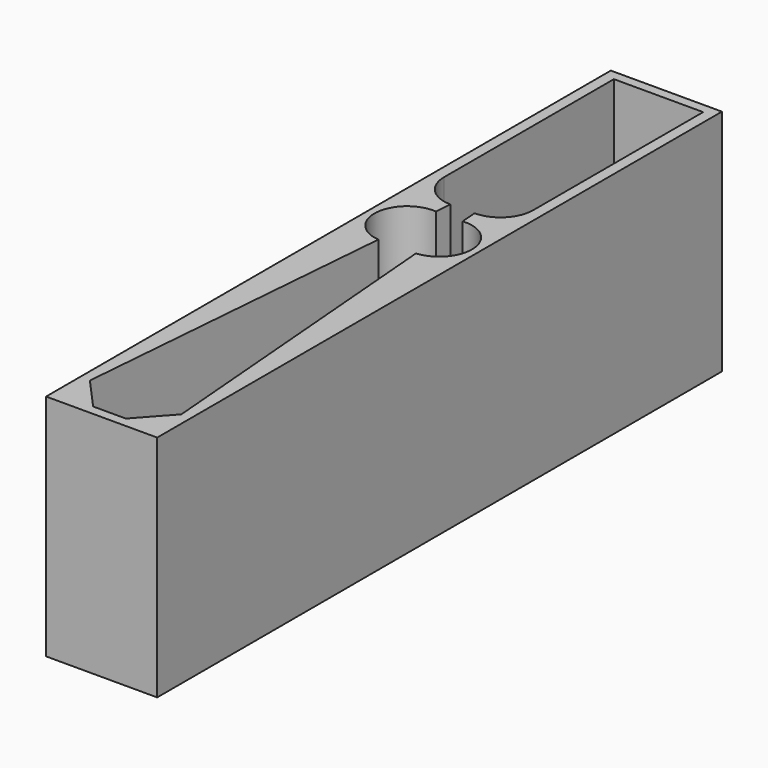
from build123d import *

# Parameters (mm, degrees)
F1_DEPTH = 68
F2_DEPTH = 2


with BuildPart() as f1:
    # F0 (on Top) → F1 (new body)
    with BuildSketch(Plane.XY):
        Polygon((-3, 213), (-3, -3), (14, -3), (31, -3), (31, 213), (14, 213), align=None)
        with BuildLine():
            Line((14, 0), (9, 0))
            Line((9, 0), (0, 10))
            Line((0, 10), (8.259878, 110.033916))
            ThreePointArc((8.259878, 110.033916), (-0.883299, 120.822907), (9.905692, 129.966084))
            Line((9.905692, 129.966084), (10.321346, 135))
            ThreePointArc((10.321346, 135), (3.266782, 137.937946), (0.346885, 145))
            Line((0.346885, 145), (0.346885, 210))
            Line((0.346885, 210), (14, 210))
            Line((14, 210), (27.653115, 210))
            Line((27.653115, 210), (27.653115, 145))
            ThreePointArc((27.653115, 145), (24.733218, 137.937946), (17.678654, 135))
            Line((17.678654, 135), (18.094308, 129.966084))
            ThreePointArc((18.094308, 129.966084), (28.883299, 120.822907), (19.740122, 110.033916))
            Line((19.740122, 110.033916), (28, 10))
            Line((28, 10), (19, 0))
            Line((19, 0), (14, 0))
        make_face(mode=Mode.SUBTRACT)
    extrude(amount=F1_DEPTH)

    # F0 (on Top) → F2 (join)
    with BuildSketch(Plane.XY):
        Polygon((-3, 213), (-3, -3), (14, -3), (31, -3), (31, 213), (14, 213), align=None)
        with BuildLine():
            Line((14, 0), (9, 0))
            Line((9, 0), (0, 10))
            Line((0, 10), (8.259878, 110.033916))
            ThreePointArc((8.259878, 110.033916), (-0.883299, 120.822907), (9.905692, 129.966084))
            Line((9.905692, 129.966084), (10.321346, 135))
            ThreePointArc((10.321346, 135), (3.266782, 137.937946), (0.346885, 145))
            Line((0.346885, 145), (0.346885, 210))
            Line((0.346885, 210), (14, 210))
            Line((14, 210), (27.653115, 210))
            Line((27.653115, 210), (27.653115, 145))
            ThreePointArc((27.653115, 145), (24.733218, 137.937946), (17.678654, 135))
            Line((17.678654, 135), (18.094308, 129.966084))
            ThreePointArc((18.094308, 129.966084), (28.883299, 120.822907), (19.740122, 110.033916))
            Line((19.740122, 110.033916), (28, 10))
            Line((28, 10), (19, 0))
            Line((19, 0), (14, 0))
        make_face(mode=Mode.SUBTRACT)
        with BuildLine():
            Line((0, 10), (9, 0))
            Line((9, 0), (14, 0))
            Line((14, 0), (19, 0))
            Line((19, 0), (28, 10))
            Line((28, 10), (19.740122, 110.033916))
            ThreePointArc((19.740122, 110.033916), (28.883299, 120.822907), (18.094308, 129.966084))
            Line((18.094308, 129.966084), (17.678654, 135))
            ThreePointArc((17.678654, 135), (24.733218, 137.937946), (27.653115, 145))
            Line((27.653115, 145), (27.653115, 210))
            Line((27.653115, 210), (14, 210))
            Line((14, 210), (0.346885, 210))
            Line((0.346885, 210), (0.346885, 145))
            ThreePointArc((0.346885, 145), (3.266782, 137.937946), (10.321346, 135))
            Line((10.321346, 135), (9.905692, 129.966084))
            ThreePointArc((9.905692, 129.966084), (-0.883299, 120.822907), (8.259878, 110.033916))
            Line((8.259878, 110.033916), (0, 10))
        make_face()
    extrude(amount=-F2_DEPTH)


solid = f1.part
